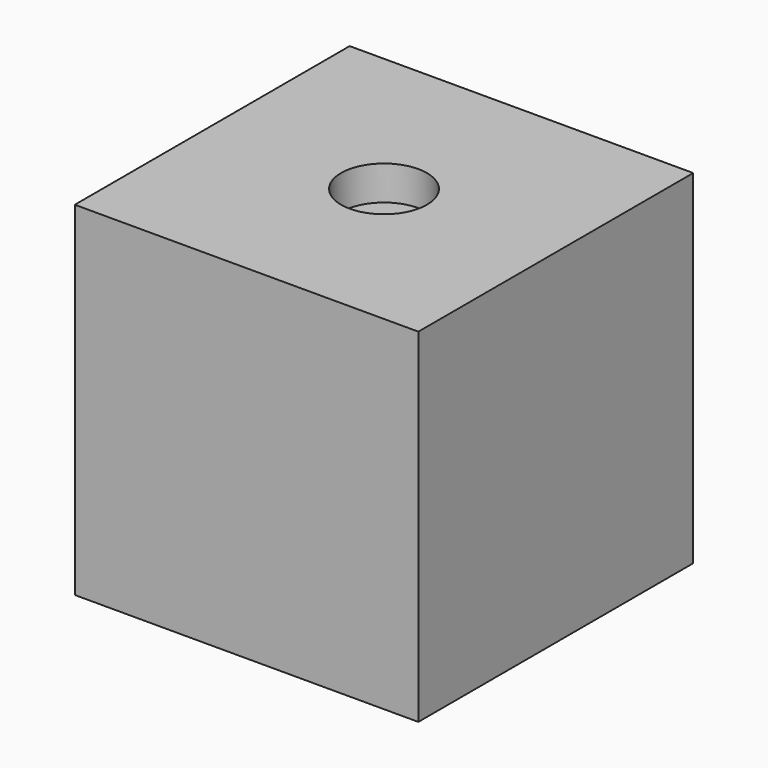
from build123d import *

# Parameters (mm, degrees)
F1_DEPTH  = 25.4
F1_FACE_W = 50.8
F1_FACE_H = 50.8
F2_DEPTH  = 25.4
F3_R      = 6.35
F4_DEPTH  = 5.08
F6_DEPTH  = 5.08
F8_DEPTH  = 5.08
F9_DEPTH  = 6.35


with BuildPart() as f1:
    # F0 (on Front) → F1 (new body)
    with BuildSketch(Plane.XZ):
        Polygon((-25.4, 25.4), (-25.4, 0), (-25.4, -25.4), (25.4, -25.4), (25.4, 25.4), align=None)
    extrude(amount=F1_DEPTH)

    # F1_face (on face) → F2 (join)
    with BuildSketch(Plane(origin=(0, 0, 0), x_dir=(1, 0, 0), z_dir=(0, 1, 0))):
        Rectangle(F1_FACE_W, F1_FACE_H)
    extrude(amount=F2_DEPTH)

    # F3 (on face) → F4 (cut)
    with BuildSketch(Plane.XY.offset(25.4)):
        Circle(F3_R)
    extrude(amount=-F4_DEPTH, mode=Mode.SUBTRACT)

    # F5 (on face) → F6 (cut)
    with BuildSketch(Plane(origin=(0, 25.4, 0), x_dir=(-1, 0, 0), z_dir=(0, 1, 0))):
        with BuildLine():
            Line((-12.7, 0), (0, 0))
            Line((0, 0), (12.7, 0))
            Line((12.7, 0), (25.4, 0))
            Line((25.4, 0), (25.4, 25.4))
            Line((25.4, 25.4), (-12.7, 25.4))
            Line((-12.7, 25.4), (-12.7, 19.05))
            ThreePointArc((-12.7, 19.05), (-8.209872, 17.190128), (-6.35, 12.7))
            ThreePointArc((-6.35, 12.7), (-8.209872, 8.209872), (-12.7, 6.35))
            Line((-12.7, 6.35), (-12.7, 0))
        make_face()
        with BuildLine():
            Line((-25.4, 0), (-12.7, 0))
            Line((-12.7, 0), (-12.7, 6.35))
            ThreePointArc((-12.7, 6.35), (-19.05, 12.7), (-12.7, 19.05))
            Line((-12.7, 19.05), (-12.7, 25.4))
            Line((-12.7, 25.4), (-25.4, 25.4))
            Line((-25.4, 25.4), (-25.4, 0))
        make_face()
        with BuildLine():
            Line((25.4, 0), (12.7, 0))
            Line((12.7, 0), (12.7, -6.23736))
            ThreePointArc((12.7, -6.23736), (17.269776, -8.130224), (19.16264, -12.7))
            ThreePointArc((19.16264, -12.7), (17.269776, -17.269776), (12.7, -19.16264))
            Line((12.7, -19.16264), (12.7, -25.4))
            Line((12.7, -25.4), (25.4, -25.4))
            Line((25.4, -25.4), (25.4, 0))
        make_face()
        with BuildLine():
            Line((12.7, 0), (0, 0))
            Line((0, 0), (-12.7, 0))
            Line((-12.7, 0), (-25.4, 0))
            Line((-25.4, 0), (-25.4, -25.4))
            Line((-25.4, -25.4), (12.7, -25.4))
            Line((12.7, -25.4), (12.7, -19.16264))
            ThreePointArc((12.7, -19.16264), (6.23736, -12.7), (12.7, -6.23736))
            Line((12.7, -6.23736), (12.7, 0))
        make_face()
    extrude(amount=-F6_DEPTH, mode=Mode.SUBTRACT)

    # F7 (on face) → F8 (cut)
    with BuildSketch(Plane(origin=(0, 0, -25.4), x_dir=(1, 0, 0), z_dir=(0, 0, -1))):
        with BuildLine():
            Line((-12.7, -12.7), (-12.7, -6.35))
            ThreePointArc((-12.7, -6.35), (-19.05, -12.7), (-12.7, -19.05))
            Line((-12.7, -19.05), (-12.7, -12.7))
        make_face()
        with BuildLine():
            ThreePointArc((-6.35, -12.7), (-8.209872, -8.209872), (-12.7, -6.35))
            Line((-12.7, -6.35), (-12.7, -12.7))
            Line((-12.7, -12.7), (-12.7, -19.05))
            ThreePointArc((-12.7, -19.05), (-8.209872, -17.190128), (-6.35, -12.7))
        make_face()
        with BuildLine():
            Line((6.35, 0), (0, 0))
            Line((0, 0), (-6.35, 0))
            ThreePointArc((-6.35, 0), (0, -6.35), (6.35, 0))
        make_face()
        with BuildLine():
            Line((-6.35, 0), (0, 0))
            Line((0, 0), (6.35, 0))
            ThreePointArc((6.35, 0), (0, 6.35), (-6.35, 0))
        make_face()
        with BuildLine():
            Line((12.7, 12.7), (12.7, 6.35))
            ThreePointArc((12.7, 6.35), (17.190128, 8.209872), (19.05, 12.7))
            ThreePointArc((19.05, 12.7), (17.190128, 17.190128), (12.7, 19.05))
            Line((12.7, 19.05), (12.7, 12.7))
        make_face()
        with BuildLine():
            ThreePointArc((12.7, 19.05), (6.35, 12.7), (12.7, 6.35))
            Line((12.7, 6.35), (12.7, 12.7))
            Line((12.7, 12.7), (12.7, 19.05))
        make_face()
    extrude(amount=-F8_DEPTH, mode=Mode.SUBTRACT)

    # F5 (on face) → F9 (join)
    with BuildSketch(Plane(origin=(0, 25.4, 0), x_dir=(-1, 0, 0), z_dir=(0, 1, 0))):
        with BuildLine():
            Line((-12.7, 0), (0, 0))
            Line((0, 0), (12.7, 0))
            Line((12.7, 0), (25.4, 0))
            Line((25.4, 0), (25.4, 25.4))
            Line((25.4, 25.4), (-12.7, 25.4))
            Line((-12.7, 25.4), (-12.7, 19.05))
            ThreePointArc((-12.7, 19.05), (-8.209872, 17.190128), (-6.35, 12.7))
            ThreePointArc((-6.35, 12.7), (-8.209872, 8.209872), (-12.7, 6.35))
            Line((-12.7, 6.35), (-12.7, 0))
        make_face()
        with BuildLine():
            Line((12.7, 0), (0, 0))
            Line((0, 0), (-12.7, 0))
            Line((-12.7, 0), (-25.4, 0))
            Line((-25.4, 0), (-25.4, -25.4))
            Line((-25.4, -25.4), (12.7, -25.4))
            Line((12.7, -25.4), (12.7, -19.16264))
            ThreePointArc((12.7, -19.16264), (6.23736, -12.7), (12.7, -6.23736))
            Line((12.7, -6.23736), (12.7, 0))
        make_face()
        with BuildLine():
            Line((25.4, 0), (12.7, 0))
            Line((12.7, 0), (12.7, -6.23736))
            ThreePointArc((12.7, -6.23736), (17.269776, -8.130224), (19.16264, -12.7))
            ThreePointArc((19.16264, -12.7), (17.269776, -17.269776), (12.7, -19.16264))
            Line((12.7, -19.16264), (12.7, -25.4))
            Line((12.7, -25.4), (25.4, -25.4))
            Line((25.4, -25.4), (25.4, 0))
        make_face()
        with BuildLine():
            Line((-25.4, 0), (-12.7, 0))
            Line((-12.7, 0), (-12.7, 6.35))
            ThreePointArc((-12.7, 6.35), (-19.05, 12.7), (-12.7, 19.05))
            Line((-12.7, 19.05), (-12.7, 25.4))
            Line((-12.7, 25.4), (-25.4, 25.4))
            Line((-25.4, 25.4), (-25.4, 0))
        make_face()
    extrude(amount=-F9_DEPTH)


solid = f1.part
